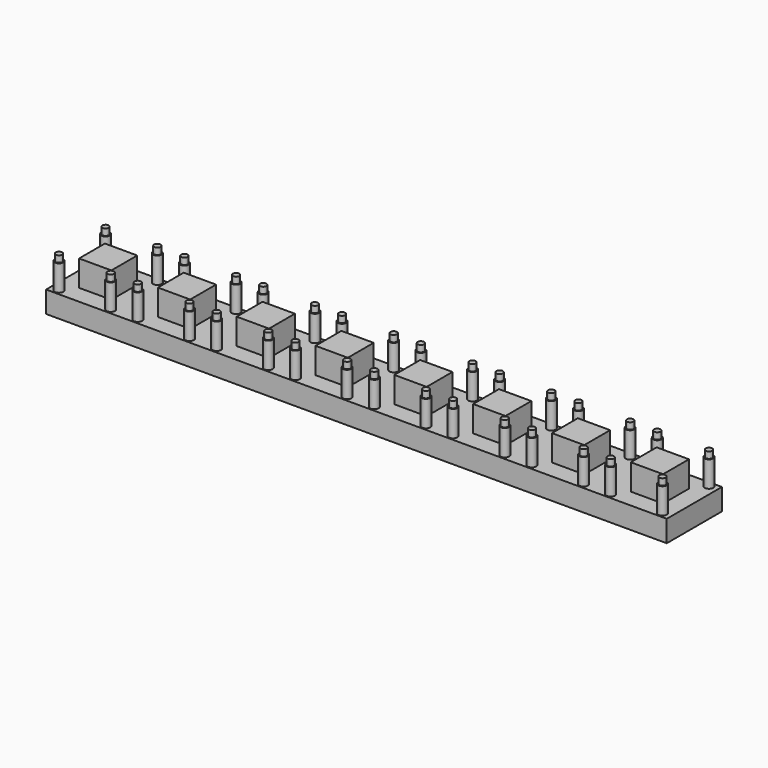
from build123d import *

# Parameters (mm, degrees)
SKETCH_W               = 32
SKETCH_H               = 32
PAD_DEPTH              = 10
SKETCH001_R            = 1.5
PAD001_DEPTH           = 15
SKETCH002_R            = 2
SKETCH002_W            = 15
SKETCH002_H            = 15
PAD002_DEPTH           = 12
PAD002_FACE3_W         = 32
PAD002_FACE3_H         = 10
PAD003_DEPTH           = 256
LINEARPATTERN_COUNT    = 8
LINEARPATTERN_PITCH    = 36.571429
LINEARPATTERN001_COUNT = 8
LINEARPATTERN001_PITCH = 36.571429


with BuildPart() as part:
    # Sketch → Pad (new body)
    with BuildSketch(Plane.XY):
        with Locations((16, 16)):
            Rectangle(SKETCH_W, SKETCH_H)
    extrude(amount=PAD_DEPTH)

    # Sketch001 (on Face6 of Pad) → Pad001 (join)
    with BuildSketch(Plane.XY.offset(10)):
        with Locations((4, 29.5)):
            Circle(SKETCH001_R)
        with Locations((28, 29.5)):
            Circle(SKETCH001_R)
        with Locations((4, 2.5)):
            Circle(SKETCH001_R)
        with Locations((28, 2.5)):
            Circle(SKETCH001_R)
    pad001 = extrude(amount=PAD001_DEPTH)

    # Sketch002 (on Face5 of Pad001) → Pad002 (join)
    with BuildSketch(Plane.XY.offset(10)):
        with Locations((4, 2.5)):
            Circle(SKETCH002_R)
        with Locations((28, 2.5)):
            Circle(SKETCH002_R)
        with Locations((4, 29.5)):
            Circle(SKETCH002_R)
        with Locations((28, 29.5)):
            Circle(SKETCH002_R)
        with Locations((16, 16)):
            Rectangle(SKETCH002_W, SKETCH002_H)
    pad002 = extrude(amount=PAD002_DEPTH)

    # Pad002 Face3 → Pad003 (add)
    with BuildSketch(Plane(origin=(32, 16, 5), x_dir=(0, -1, 0), z_dir=(1, 0, 0))):
        Rectangle(PAD002_FACE3_W, PAD002_FACE3_H)
    extrude(amount=PAD003_DEPTH)

    # LinearPattern: Pad002 ×8
    with Locations(*[(i * LINEARPATTERN_PITCH, 0, 0) for i in range(1, LINEARPATTERN_COUNT)]):
        add(pad002)

    # LinearPattern001: Pad001 ×8
    with Locations(*[(i * LINEARPATTERN001_PITCH, 0, 0) for i in range(1, LINEARPATTERN001_COUNT)]):
        add(pad001)


solid = part.part
